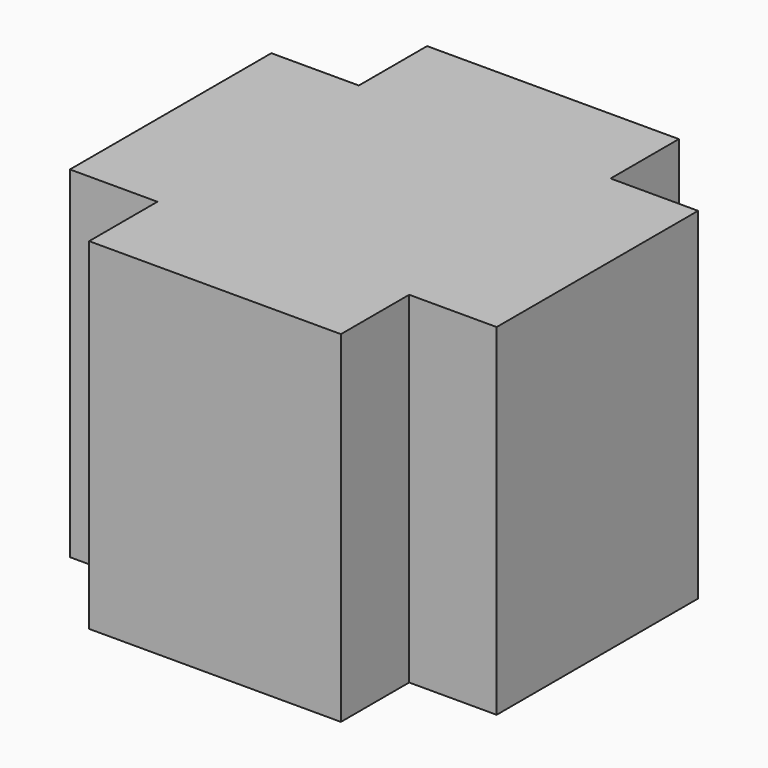
from build123d import *

# Parameters (mm, degrees)
F5_DEPTH = 40
F6_DEPTH = 40


with BuildPart() as f5:
    # F4 (on Top) → F5 (new body)
    with BuildSketch(Plane.XY):
        Polygon((-30, 0), (-80, 0), (-80, -14.75), (-69.75, -14.75), (-69.75, -24.75), (-40.25, -24.75), (-40.25, -14.75), (-30, -14.75), align=None)
    extrude(amount=-F5_DEPTH)

    # F4 (on Top) → F6 (join)
    with BuildSketch(Plane.XY):
        Polygon((-69.75, 14.75), (-80, 14.75), (-80, 0), (-30, 0), (-30, 14.75), (-40.25, 14.75), (-40.25, 24.75), (-69.75, 24.75), align=None)
        Polygon((-30, 0), (-80, 0), (-80, -14.75), (-69.75, -14.75), (-69.75, -24.75), (-40.25, -24.75), (-40.25, -14.75), (-30, -14.75), align=None)
    extrude(amount=-F6_DEPTH)


solid = f5.part
